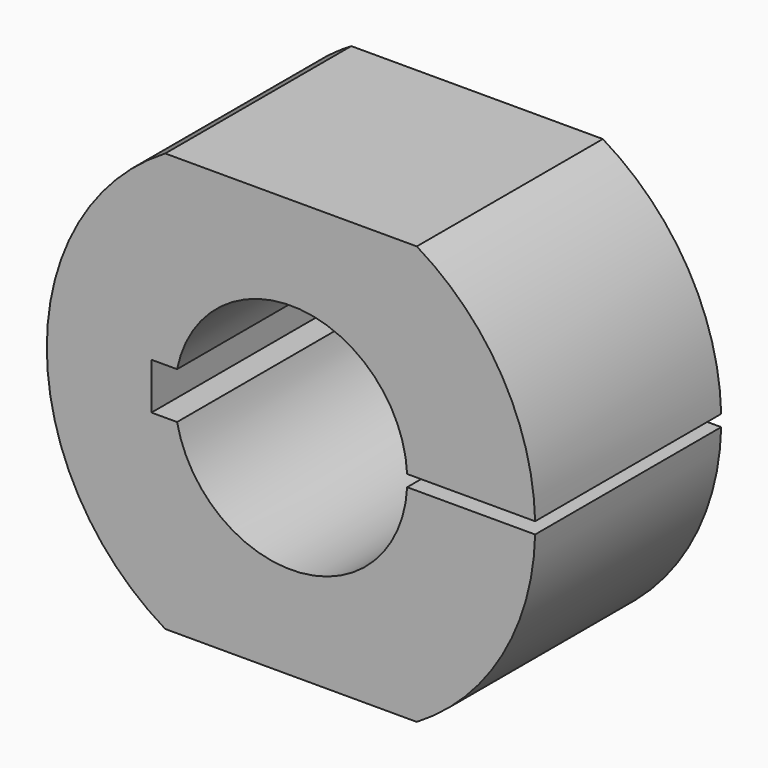
from build123d import *

# Parameters (mm, degrees)
F1_DEPTH = 31.75
F3_DEPTH = 28.575


with BuildPart() as f1:
    # F0 (on Front) → F1 (new body)
    with BuildSketch(Plane.XZ):
        with BuildLine():
            Line((15.855144, 0.79375), (33.328049, 0.79375))
            ThreePointArc((33.328049, 0.79375), (28.81838, 16.75977), (17.171438, 28.575))
            Line((17.171438, 28.575), (-17.171438, 28.575))
            ThreePointArc((-17.171438, 28.575), (-33.3375, 0), (-17.171438, -28.575))
            Line((-17.171438, -28.575), (17.171438, -28.575))
            ThreePointArc((17.171438, -28.575), (28.81838, -16.75977), (33.328049, -0.79375))
            Line((33.328049, -0.79375), (15.855144, -0.79375))
            ThreePointArc((15.855144, -0.79375), (1.200092, -15.829574), (-15.55426, -3.175))
            Line((-15.55426, -3.175), (-19.05, -3.175))
            Line((-19.05, -3.175), (-19.05, 3.175))
            Line((-19.05, 3.175), (-15.55426, 3.175))
            ThreePointArc((-15.55426, 3.175), (1.200092, 15.829574), (15.855144, 0.79375))
        make_face()
    extrude(amount=F1_DEPTH)

    # F2 (on Top) → F3 (cut, symmetric)
    with BuildSketch(Plane.XY):
        Polygon((-20.6375, 0), (-20.6375, 6.484366), (-46.338774, 6.484366), (-45.356732, -28.783964), (-40.792249, -28.783964), align=None)
    extrude(amount=F3_DEPTH, both=True, mode=Mode.SUBTRACT)


solid = f1.part
